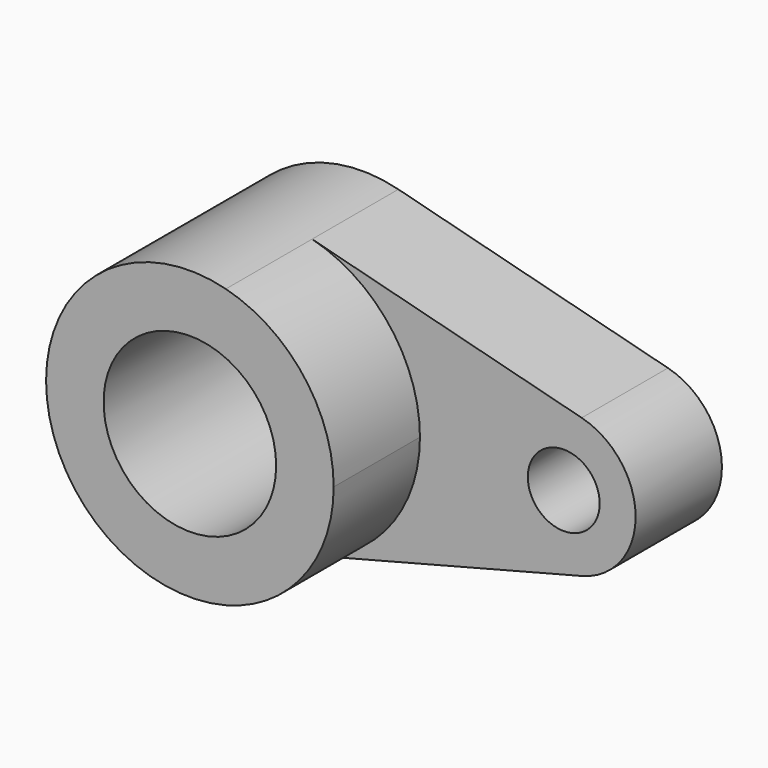
from build123d import *

# Parameters (mm, degrees)
F0_R     = 5
F1_DEPTH = 15
F0_R_2   = 12
F2_DEPTH = 30


with BuildPart() as f1:
    # F0 (on Front) → F1 (new body)
    with BuildSketch(Plane.XZ):
        with BuildLine():
            ThreePointArc((-15.940595, 30.277838), (-5.129207, 23.16037), (-0.940595, 10.912921))
            ThreePointArc((-0.940595, 10.912921), (-5.129207, -1.334527), (-15.940595, -8.451995))
            Line((-15.940595, -8.451995), (21.559405, 1.230463))
            ThreePointArc((21.559405, 1.230463), (29.059405, 10.912921), (21.559405, 20.59538))
            Line((21.559405, 20.59538), (-15.940595, 30.277838))
        make_face()
        with Locations((19.059405, 10.912921)):
            Circle(F0_R, mode=Mode.SUBTRACT)
    extrude(amount=F1_DEPTH)

    # F0 (on Front) → F2 (join)
    with BuildSketch(Plane.XZ):
        with BuildLine():
            ThreePointArc((-15.940595, -8.451995), (-5.129207, -1.334527), (-0.940595, 10.912921))
            ThreePointArc((-0.940595, 10.912921), (-5.129207, 23.16037), (-15.940595, 30.277838))
            ThreePointArc((-15.940595, 30.277838), (-40.940595, 10.912921), (-15.940595, -8.451995))
        make_face()
        with Locations((-20.940595, 10.912921)):
            Circle(F0_R_2, mode=Mode.SUBTRACT)
    extrude(amount=F2_DEPTH)


solid = f1.part
